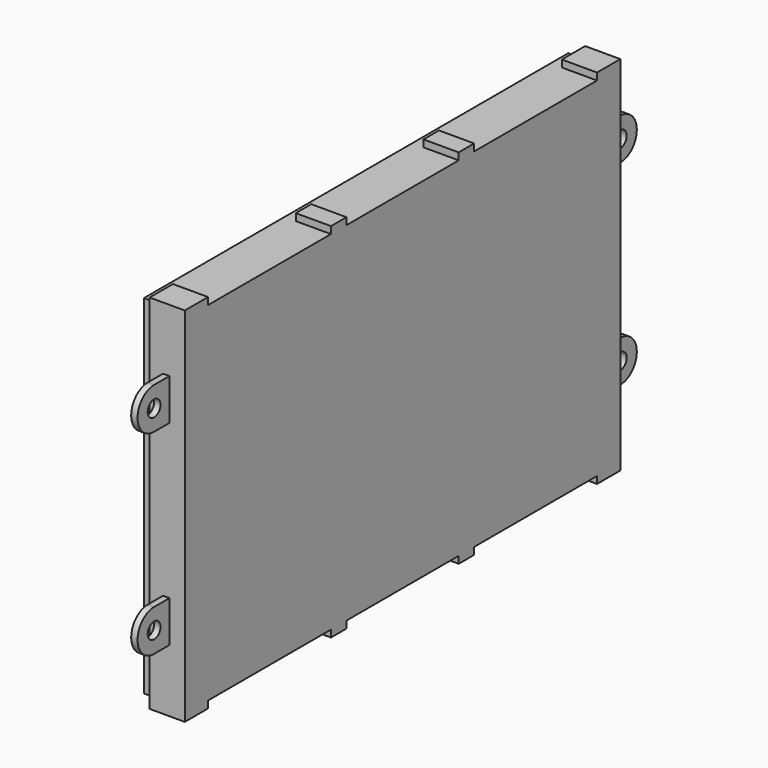
from build123d import *

# Parameters (mm, degrees)
F0_W      = 82.87
F0_H      = 54.4
F1_DEPTH  = 1.76
F2_W      = 3.02
F2_H      = 1.1
F3_DEPTH  = 5.5
F5_R      = 1.25
F6_DEPTH  = 1
F7_W      = 75
F7_H      = 50
F8_DEPTH  = 1
F9_W      = 75
F9_H      = 50
F10_DEPTH = 1


with BuildPart() as f1:
    # F0 (on Right) → F1 (new body)
    with BuildSketch(Plane.YZ):
        with Locations((41.435, 27.2)):
            Rectangle(F0_W, F0_H)
    extrude(amount=F1_DEPTH)

    # F2 (on face) → F3 (join)
    with BuildSketch(Plane.YZ.offset(1.76)):
        Polygon((0, 54.4), (0, 0), (3.45, 0), (27.45, 0), (30.47, 0), (52.4, 0), (55.42, 0), (79.42, 0), (82.87, 0), (82.87, 54.4), (79.42, 54.4), (55.42, 54.4), (52.4, 54.4), (30.47, 54.4), (27.45, 54.4), (3.45, 54.4), align=None)
        Polygon((3.45, 0), (0, 0), (0, 54.4), (3.45, 54.4), (3.45, 55.5), (-1.1, 55.5), (-1.1, -1.1), (3.45, -1.1), align=None)
        with Locations((28.96, -0.55)):
            Rectangle(F2_W, F2_H)
        with Locations((28.96, 54.95)):
            Rectangle(F2_W, F2_H)
        with Locations((53.91, -0.55)):
            Rectangle(F2_W, F2_H)
        with Locations((53.91, 54.95)):
            Rectangle(F2_W, F2_H)
        Polygon((82.87, 0), (79.42, 0), (79.42, -1.1), (83.97, -1.1), (83.97, 55.5), (79.42, 55.5), (79.42, 54.4), (82.87, 54.4), align=None)
    extrude(amount=F3_DEPTH)

    # F5 (on offset) → F6 (join)
    with BuildSketch(Plane.YZ.offset(4.86)):
        with BuildLine():
            ThreePointArc((86.965, 8.7), (89.2454193693, 9.6445806307), (90.19, 11.925))
            ThreePointArc((90.19, 11.925), (89.2454193693, 14.2054193693), (86.965, 15.15))
            ThreePointArc((86.965, 15.15), (85.156232888, 14.5950162049), (83.97, 13.1210769206))
            Line((83.97, 13.1210769206), (83.97, 10.7289230794))
            ThreePointArc((83.97, 10.7289230794), (85.156232888, 9.2549837951), (86.965, 8.7))
        make_face()
        with Locations((86.965, 11.925)):
            Circle(F5_R, mode=Mode.SUBTRACT)
        with BuildLine():
            ThreePointArc((83.97, 13.1210769206), (85.156232888, 14.5950162049), (86.965, 15.15))
            Line((86.965, 15.15), (83.97, 15.15))
            Line((83.97, 15.15), (83.97, 13.1210769206))
        make_face()
        with BuildLine():
            Line((83.97, 8.7), (86.965, 8.7))
            ThreePointArc((86.965, 8.7), (85.156232888, 9.2549837951), (83.97, 10.7289230794))
            Line((83.97, 10.7289230794), (83.97, 8.7))
        make_face()
        with BuildLine():
            Line((83.97, 10.7289230794), (83.97, 13.1210769206))
            ThreePointArc((83.97, 13.1210769206), (83.74, 11.925), (83.97, 10.7289230794))
        make_face()
        with BuildLine():
            ThreePointArc((86.965, 39.25), (89.2454193693, 40.1945806307), (90.19, 42.475))
            ThreePointArc((90.19, 42.475), (89.2454193693, 44.7554193693), (86.965, 45.7))
            ThreePointArc((86.965, 45.7), (85.156232888, 45.1450162049), (83.97, 43.6710769206))
            Line((83.97, 43.6710769206), (83.97, 41.2789230794))
            ThreePointArc((83.97, 41.2789230794), (85.156232888, 39.8049837951), (86.965, 39.25))
        make_face()
        with Locations((86.965, 42.475)):
            Circle(F5_R, mode=Mode.SUBTRACT)
        with BuildLine():
            ThreePointArc((83.97, 43.6710769206), (85.156232888, 45.1450162049), (86.965, 45.7))
            Line((86.965, 45.7), (83.97, 45.7))
            Line((83.97, 45.7), (83.97, 43.6710769206))
        make_face()
        with BuildLine():
            Line((83.97, 39.25), (86.965, 39.25))
            ThreePointArc((86.965, 39.25), (85.156232888, 39.8049837951), (83.97, 41.2789230794))
            Line((83.97, 41.2789230794), (83.97, 39.25))
        make_face()
        with BuildLine():
            Line((83.97, 41.2789230794), (83.97, 43.6710769206))
            ThreePointArc((83.97, 43.6710769206), (83.74, 42.475), (83.97, 41.2789230794))
        make_face()
        with BuildLine():
            Line((-1.1, 43.6710769206), (-1.1, 45.7))
            Line((-1.1, 45.7), (-4.095, 45.7))
            ThreePointArc((-4.095, 45.7), (-2.286232888, 45.1450162049), (-1.1, 43.6710769206))
        make_face()
        with BuildLine():
            ThreePointArc((-1.1, 43.6710769206), (-2.286232888, 45.1450162049), (-4.095, 45.7))
            ThreePointArc((-4.095, 45.7), (-7.32, 42.475), (-4.095, 39.25))
            ThreePointArc((-4.095, 39.25), (-2.286232888, 39.8049837951), (-1.1, 41.2789230794))
            Line((-1.1, 41.2789230794), (-1.1, 43.6710769206))
        make_face()
        with Locations((-4.095, 42.475)):
            Circle(F5_R, mode=Mode.SUBTRACT)
        with BuildLine():
            ThreePointArc((-0.87, 42.475), (-0.9280219451, 43.0839950739), (-1.1, 43.6710769206))
            Line((-1.1, 43.6710769206), (-1.1, 41.2789230794))
            ThreePointArc((-1.1, 41.2789230794), (-0.9280219451, 41.8660049261), (-0.87, 42.475))
        make_face()
        with BuildLine():
            ThreePointArc((-1.1, 41.2789230794), (-2.286232888, 39.8049837951), (-4.095, 39.25))
            Line((-4.095, 39.25), (-1.1, 39.25))
            Line((-1.1, 39.25), (-1.1, 41.2789230794))
        make_face()
        with BuildLine():
            Line((-4.095, 8.7), (-1.1, 8.7))
            Line((-1.1, 8.7), (-1.1, 10.7289230794))
            ThreePointArc((-1.1, 10.7289230794), (-2.286232888, 9.2549837951), (-4.095, 8.7))
        make_face()
        with BuildLine():
            ThreePointArc((-4.095, 15.15), (-7.32, 11.925), (-4.095, 8.7))
            ThreePointArc((-4.095, 8.7), (-2.286232888, 9.2549837951), (-1.1, 10.7289230794))
            Line((-1.1, 10.7289230794), (-1.1, 13.1210769206))
            ThreePointArc((-1.1, 13.1210769206), (-2.286232888, 14.5950162049), (-4.095, 15.15))
        make_face()
        with Locations((-4.095, 11.925)):
            Circle(F5_R, mode=Mode.SUBTRACT)
        with BuildLine():
            Line((-1.1, 13.1210769206), (-1.1, 10.7289230794))
            ThreePointArc((-1.1, 10.7289230794), (-0.9280219451, 11.3160049261), (-0.87, 11.925))
            ThreePointArc((-0.87, 11.925), (-0.9280219451, 12.5339950739), (-1.1, 13.1210769206))
        make_face()
        with BuildLine():
            Line((-1.1, 15.15), (-4.095, 15.15))
            ThreePointArc((-4.095, 15.15), (-2.286232888, 14.5950162049), (-1.1, 13.1210769206))
            Line((-1.1, 13.1210769206), (-1.1, 15.15))
        make_face()
    extrude(amount=-F6_DEPTH)

    # F7 (on face) → F8 (cut)
    with BuildSketch(Plane(origin=(0, 0, 0), x_dir=(0, -1, 0), z_dir=(-1, 0, 0))):
        with Locations((-39.67, 27.2)):
            Rectangle(F7_W, F7_H)
    extrude(amount=-F8_DEPTH, mode=Mode.SUBTRACT)


with BuildPart() as f10:
    # F9 (on face) → F10 (new body)
    with BuildSketch(Plane(origin=(1, 0, 0), x_dir=(0, -1, 0), z_dir=(-1, 0, 0))):
        with Locations((-39.67, 27.2)):
            Rectangle(F9_W, F9_H)
    extrude(amount=F10_DEPTH)


solid = Compound([f1.part, f10.part])
